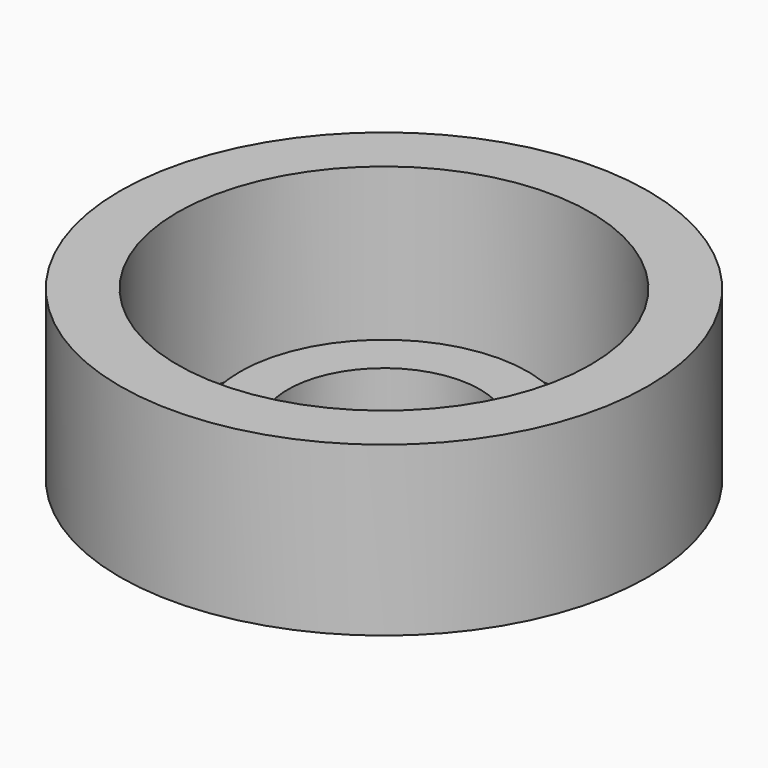
from build123d import *

# Parameters (mm, degrees)
F0_R     = 11
F1_DEPTH = 7
F2_R     = 8.6
F3_DEPTH = 18.2
F4_R     = 6
F4_R_2   = 4
F5_DEPTH = 2


with BuildPart() as f1:
    # F0 (on Top) → F1 (new body)
    with BuildSketch(Plane.XY):
        Circle(F0_R)
    extrude(amount=F1_DEPTH)

    # F2 (on Top) → F3 (cut)
    with BuildSketch(Plane.XY):
        Circle(F2_R)
    extrude(amount=F3_DEPTH, mode=Mode.SUBTRACT)


with BuildPart() as f5:
    # F4 (on Top) → F5 (new body)
    with BuildSketch(Plane.XY):
        Circle(F4_R)
        Circle(F4_R_2, mode=Mode.SUBTRACT)
    extrude(amount=F5_DEPTH)


solid = Compound([f1.part, f5.part])
